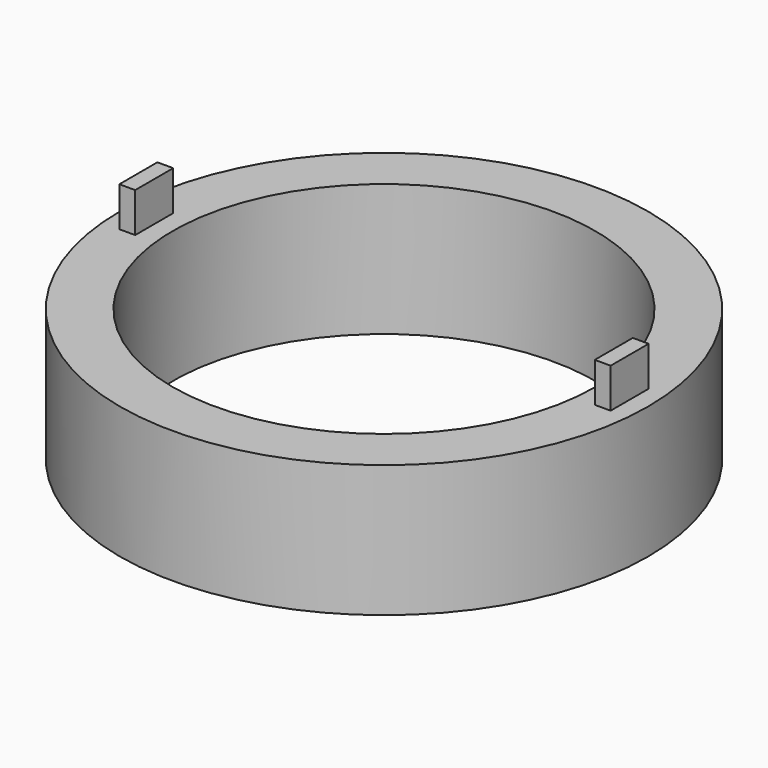
from build123d import *

# Parameters (mm, degrees)
F0_W     = 0.6
F0_H     = 1.8
F1_DEPTH = 6.5
F0_R     = 10
F0_R_2   = 8
F2_DEPTH = 5


with BuildPart() as f1:
    # F0 (on Top) → F1 (new body)
    with BuildSketch(Plane.XY):
        with Locations((-9, 0)):
            Rectangle(F0_W, F0_H)
    extrude(amount=F1_DEPTH)



with BuildPart() as f1b:
    # F0 (on Top) → F1, piece 2 (new body)
    with BuildSketch(Plane.XY):
        with Locations((9, 0)):
            Rectangle(F0_W, F0_H)
    extrude(amount=F1_DEPTH)


with BuildPart() as f1_1:
    add(f1.part)

    add(f1b.part)  # F2 merges F1b
    # F0 (on Top) → F2 (join)
    with BuildSketch(Plane.XY):
        Circle(F0_R)
        with Locations((-9, 0)):
            Rectangle(F0_W, F0_H, mode=Mode.SUBTRACT)
        Circle(F0_R_2, mode=Mode.SUBTRACT)
        with Locations((9, 0)):
            Rectangle(F0_W, F0_H, mode=Mode.SUBTRACT)
    extrude(amount=F2_DEPTH)


solid = f1_1.part
